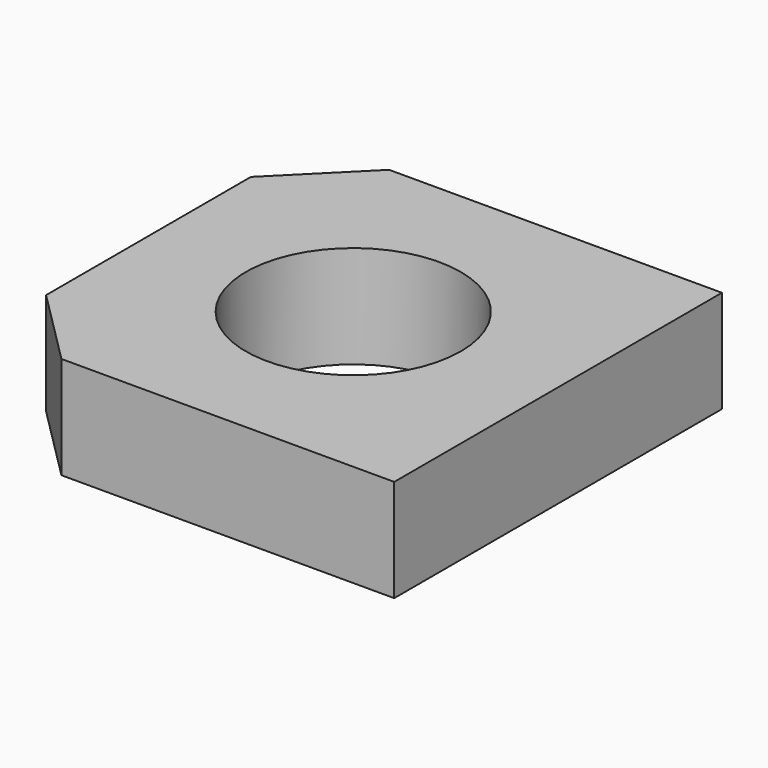
from build123d import *

# Parameters (mm, degrees)
CYLINDER_R     = 4.2
CYLINDER_DEPTH = 4
BOX003_W       = 16
BOX003_H       = 16
BOX003_DEPTH   = 4
CHAMFER_SIZE   = 3


with BuildPart() as cylinder:
    # Cylinder → Cylinder (new body)
    with BuildSketch(Plane(origin=(2, 8, 0), x_dir=(1, 0, 0), z_dir=(0, 0, 1))):
        Circle(CYLINDER_R)
    extrude(amount=CYLINDER_DEPTH)


with BuildPart() as chamfer_body:
    # Box003 → Box003 (new body)
    with BuildSketch(Plane(origin=(-6, 0, 0), x_dir=(1, 0, 0), z_dir=(0, 0, 1))):
        with Locations((8, 8)):
            Rectangle(BOX003_W, BOX003_H)
    extrude(amount=BOX003_DEPTH)

    # Cut003: cut Cylinder
    add(cylinder.part, mode=Mode.SUBTRACT)

    # Chamfer
    chamfer_edges = [chamfer_body.edges().sort_by_distance(p)[0] for p in [
        (-6, 0, 2),
        (-6, 16, 2),
    ]]
    chamfer(chamfer_edges, length=CHAMFER_SIZE)


solid = chamfer_body.part
